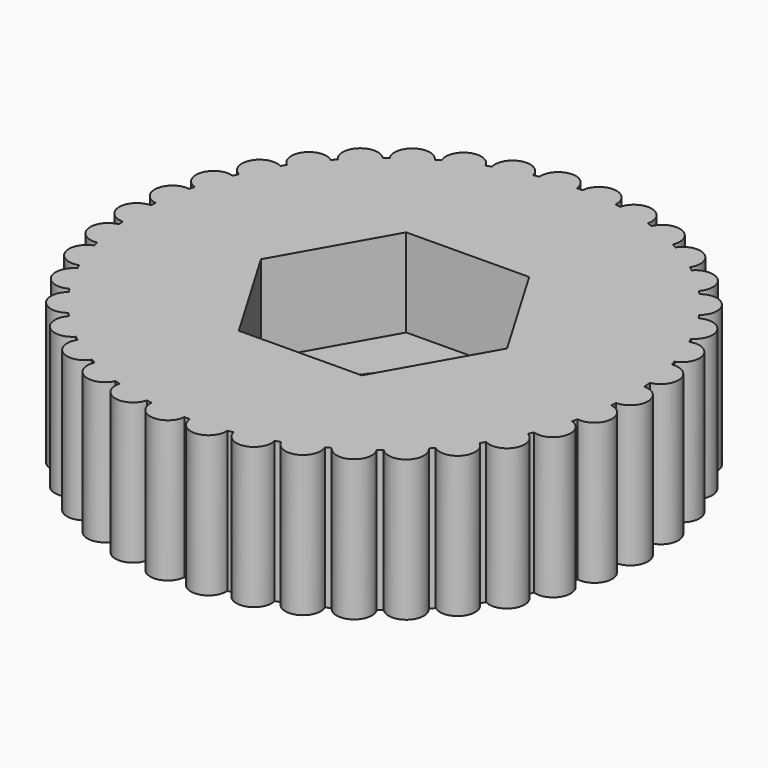
from build123d import *

# Parameters (mm, degrees)
F0_R     = 1.5
F1_DEPTH = 4
F2_DEPTH = 2.5


with BuildPart() as f1:
    # F0 (on Top) → F1 (new body)
    with BuildSketch(Plane.XY):
        with BuildLine():
            ThreePointArc((6.98212, -0.5), (6.995529, -0.25016), (7, 0))
            ThreePointArc((7, 0), (6.995529, 0.25016), (6.98212, 0.5))
            ThreePointArc((6.98212, 0.5), (6.973363, 0.61009), (6.96287, 0.720029))
            ThreePointArc((6.96287, 0.720029), (6.893654, 1.215537), (6.789222, 1.704836))
            ThreePointArc((6.789222, 1.704836), (6.769952, 1.779819), (6.749853, 1.854583))
            ThreePointArc((6.749853, 1.854583), (6.600142, 2.331979), (6.416714, 2.797461))
            ThreePointArc((6.416714, 2.797461), (6.385382, 2.868256), (6.35327, 2.938701))
            ThreePointArc((6.35327, 2.938701), (6.127134, 3.385), (5.869698, 3.814006))
            ThreePointArc((5.869698, 3.814006), (5.827157, 3.87869), (5.783904, 3.942899))
            ThreePointArc((5.783904, 3.942899), (5.487495, 4.345964), (5.163052, 4.726827))
            ThreePointArc((5.163052, 4.726827), (5.110459, 4.78364), (5.057241, 4.839867))
            ThreePointArc((5.057241, 4.839867), (4.698619, 5.188736), (4.315993, 5.511098))
            ThreePointArc((4.315993, 5.511098), (4.254778, 5.558495), (4.193043, 5.605211))
            ThreePointArc((4.193043, 5.605211), (3.78196, 5.890397), (3.351557, 6.145491))
            ThreePointArc((3.351557, 6.145491), (3.283385, 6.182183), (3.214811, 6.218118))
            ThreePointArc((3.214811, 6.218118), (2.762449, 6.431864), (2.295974, 6.612753))
            ThreePointArc((2.295974, 6.612753), (2.222698, 6.637742), (2.149151, 6.661918))
            ThreePointArc((2.149151, 6.661918), (1.66781, 6.798412), (1.177949, 6.900176))
            ThreePointArc((1.177949, 6.900176), (1.101563, 6.912782), (1.025043, 6.924542))
            ThreePointArc((1.025043, 6.924542), (0.527814, 6.980072), (0.02789, 6.999944))
            ThreePointArc((0.02789, 6.999944), (-0.049529, 6.999825), (-0.126942, 6.998849))
            ThreePointArc((-0.126942, 6.998849), (-0.626536, 6.971905), (-1.122928, 6.909344))
            ThreePointArc((-1.122928, 6.909344), (-1.199275, 6.896502), (-1.275475, 6.882817))
            ThreePointArc((-1.275475, 6.882817), (-1.763846, 6.774131), (-2.243208, 6.630839))
            ThreePointArc((-2.243208, 6.630839), (-2.316405, 6.605624), (-2.38932, 6.579601))
            ThreePointArc((-2.38932, 6.579601), (-2.853188, 6.392129), (-3.302481, 6.172003))
            ThreePointArc((-3.302481, 6.172003), (-3.370539, 6.135101), (-3.438186, 6.097449))
            ThreePointArc((-3.438186, 6.097449), (-3.864936, 5.836289), (-4.271941, 5.545315))
            ThreePointArc((-4.271941, 5.545315), (-4.333009, 5.49773), (-4.393547, 5.449472))
            ThreePointArc((-4.393547, 5.449472), (-4.771573, 5.121727), (-5.125223, 4.767818))
            ThreePointArc((-5.125223, 4.767818), (-5.17764, 4.710843), (-5.229424, 4.653292))
            ThreePointArc((-5.229424, 4.653292), (-5.548444, 4.267876), (-5.83912, 3.860657))
            ThreePointArc((-5.83912, 3.860657), (-5.881461, 3.795842), (-5.923082, 3.730563))
            ThreePointArc((-5.923082, 3.730563), (-6.174421, 3.297957), (-6.394219, 2.848503))
            ThreePointArc((-6.394219, 2.848503), (-6.425331, 2.777611), (-6.455658, 2.706379))
            ThreePointArc((-6.455658, 2.706379), (-6.632481, 2.238347), (-6.775421, 1.758881))
            ThreePointArc((-6.775421, 1.758881), (-6.79446, 1.68384), (-6.812667, 1.608592))
            ThreePointArc((-6.812667, 1.608592), (-6.910165, 1.117864), (-6.972362, 0.621426))
            ThreePointArc((-6.972362, 0.621426), (-6.978808, 0.544276), (-6.984401, 0.467059))
            ThreePointArc((-6.984401, 0.467059), (-6.999922, -0.03302), (-6.979684, -0.53293))
            ThreePointArc((-6.979684, -0.53293), (-6.973363, -0.61009), (-6.966189, -0.687176))
            ThreePointArc((-6.966189, -0.687176), (-6.899311, -1.183006), (-6.797188, -1.672792))
            ThreePointArc((-6.797188, -1.672792), (-6.778272, -1.747864), (-6.758527, -1.822723))
            ThreePointArc((-6.758527, -1.822723), (-6.611069, -2.300819), (-6.429838, -2.767161))
            ThreePointArc((-6.429838, -2.767161), (-6.398841, -2.838104), (-6.367061, -2.9087))
            ThreePointArc((-6.367061, -2.9087), (-6.143033, -3.35606), (-5.887624, -3.786276))
            ThreePointArc((-5.887624, -3.786276), (-5.845389, -3.85116), (-5.802439, -3.915572))
            ThreePointArc((-5.802439, -3.915572), (-5.507934, -4.320031), (-5.185291, -4.70242))
            ThreePointArc((-5.185291, -4.70242), (-5.132967, -4.75948), (-5.080015, -4.815958))
            ThreePointArc((-5.080015, -4.815958), (-4.723042, -5.166515), (-4.341941, -5.490678))
            ThreePointArc((-4.341941, -5.490678), (-4.280951, -5.538363), (-4.219436, -5.58537))
            ThreePointArc((-4.219436, -5.58537), (-3.809704, -5.872492), (-3.380509, -6.129613))
            ThreePointArc((-3.380509, -6.129613), (-3.31251, -6.166626), (-3.244107, -6.202884))
            ThreePointArc((-3.244107, -6.202884), (-2.792757, -6.418762), (-2.327141, -6.601849))
            ThreePointArc((-2.327141, -6.601849), (-2.253984, -6.627183), (-2.180552, -6.651706))
            ThreePointArc((-2.180552, -6.651706), (-1.69986, -6.790469), (-1.210485, -6.894543))
            ThreePointArc((-1.210485, -6.894543), (-1.134159, -6.907509), (-1.057695, -6.91963))
            ThreePointArc((-1.057695, -6.91963), (-0.560734, -6.977505), (-0.060909, -6.999735))
            ThreePointArc((-0.060909, -6.999735), (0.01651, -6.999981), (0.093926, -6.99937))
            ThreePointArc((0.093926, -6.99937), (0.593641, -6.974782), (1.090324, -6.914564))
            ThreePointArc((1.090324, -6.914564), (1.16673, -6.902082), (1.242994, -6.888757))
            ThreePointArc((1.242994, -6.888757), (1.731873, -6.782375), (2.211904, -6.641346))
            ThreePointArc((2.211904, -6.641346), (2.28522, -6.616477), (2.358257, -6.590799))
            ThreePointArc((2.358257, -6.590799), (2.823004, -6.405517), (3.27333, -6.187512))
            ThreePointArc((3.27333, -6.187512), (3.341562, -6.150932), (3.409385, -6.113599))
            ThreePointArc((3.409385, -6.113599), (3.837362, -5.854456), (4.245736, -5.565404))
            ThreePointArc((4.245736, -5.565404), (4.307028, -5.518108), (4.367793, -5.470136))
            ThreePointArc((4.367793, -5.470136), (4.74736, -5.144178), (5.102676, -4.791941))
            ThreePointArc((5.102676, -4.791941), (5.155361, -4.735214), (5.207415, -4.677908))
            ThreePointArc((5.207415, -4.677908), (5.528251, -4.294001), (5.820844, -3.888158))
            ThreePointArc((5.820844, -3.888158), (5.86349, -3.823544), (5.905419, -3.758461))
            ThreePointArc((5.905419, -3.758461), (6.158796, -3.327046), (6.380711, -2.878633))
            ThreePointArc((6.380711, -2.878633), (6.412157, -2.807889), (6.442819, -2.736801))
            ThreePointArc((6.442819, -2.736801), (6.621848, -2.269609), (6.767049, -1.790822))
            ThreePointArc((6.767049, -1.790822), (6.786441, -1.715871), (6.805003, -1.64071))
            ThreePointArc((6.805003, -1.64071), (6.904815, -1.150448), (6.969353, -0.654308))
            ThreePointArc((6.969353, -0.654308), (6.976163, -0.577189), (6.98212, -0.5))
        make_face()
        Polygon((1.705273, 3.015302), (3.463964, 0.030841), (1.758691, -2.984461), (-1.705273, -3.015302), (-3.463964, -0.030841), (-1.758691, 2.984461), align=None, mode=Mode.SUBTRACT)
        with BuildLine():
            ThreePointArc((6.98212, 0.5), (6.995529, 0.25016), (7, 0))
            ThreePointArc((7, 0), (6.995529, -0.25016), (6.98212, -0.5))
            ThreePointArc((6.98212, -0.5), (7.48212, 0), (6.98212, 0.5))
        make_face()
        with BuildLine():
            ThreePointArc((6.789222, 1.704836), (6.893654, 1.215537), (6.96287, 0.720029))
            ThreePointArc((6.96287, 0.720029), (7.36845, 1.299257), (6.789222, 1.704836))
        make_face()
        with BuildLine():
            ThreePointArc((6.805003, -1.64071), (7.380379, -1.229684), (6.969353, -0.654308))
            ThreePointArc((6.969353, -0.654308), (6.904815, -1.150448), (6.805003, -1.64071))
        make_face()
        with BuildLine():
            ThreePointArc((6.416714, 2.797461), (6.600142, 2.331979), (6.749853, 1.854583))
            ThreePointArc((6.749853, 1.854583), (7.054722, 2.492592), (6.416714, 2.797461))
        make_face()
        with BuildLine():
            ThreePointArc((6.442819, -2.736801), (7.077924, -2.425926), (6.767049, -1.790822))
            ThreePointArc((6.767049, -1.790822), (6.621848, -2.269609), (6.442819, -2.736801))
        make_face()
        with BuildLine():
            ThreePointArc((5.869698, 3.814006), (6.127134, 3.385), (6.35327, 2.938701))
            ThreePointArc((6.35327, 2.938701), (6.549136, 3.61814), (5.869698, 3.814006))
        make_face()
        with BuildLine():
            ThreePointArc((5.905419, -3.758461), (6.582979, -3.556193), (6.380711, -2.878633))
            ThreePointArc((6.380711, -2.878633), (6.158796, -3.327046), (5.905419, -3.758461))
        make_face()
        with BuildLine():
            ThreePointArc((5.163052, 4.726827), (5.487495, 4.345964), (5.783904, 3.942899))
            ThreePointArc((5.783904, 3.942899), (5.865442, 4.645289), (5.163052, 4.726827))
        make_face()
        with BuildLine():
            ThreePointArc((5.207415, -4.677908), (5.909005, -4.589747), (5.820844, -3.888158))
            ThreePointArc((5.820844, -3.888158), (5.528251, -4.294001), (5.207415, -4.677908))
        make_face()
        with BuildLine():
            ThreePointArc((4.315993, 5.511098), (4.698619, 5.188736), (5.057241, 4.839867))
            ThreePointArc((5.057241, 4.839867), (5.022233, 5.546107), (4.315993, 5.511098))
        make_face()
        with BuildLine():
            ThreePointArc((4.367793, -5.470136), (5.074331, -5.49848), (5.102676, -4.791941))
            ThreePointArc((5.102676, -4.791941), (4.74736, -5.144178), (4.367793, -5.470136))
        make_face()
        with BuildLine():
            ThreePointArc((3.351557, 6.145491), (3.78196, 5.890397), (4.193043, 5.605211))
            ThreePointArc((4.193043, 5.605211), (4.04244, 6.296094), (3.351557, 6.145491))
        make_face()
        with BuildLine():
            ThreePointArc((3.409385, -6.113599), (4.101658, -6.257677), (4.245736, -5.565404))
            ThreePointArc((4.245736, -5.565404), (3.837362, -5.854456), (3.409385, -6.113599))
        make_face()
        with BuildLine():
            ThreePointArc((2.295974, 6.612753), (2.762449, 6.431864), (3.214811, 6.218118))
            ThreePointArc((3.214811, 6.218118), (2.95271, 6.874854), (2.295974, 6.612753))
        make_face()
        with BuildLine():
            ThreePointArc((2.358257, -6.590799), (3.017437, -6.846692), (3.27333, -6.187512))
            ThreePointArc((3.27333, -6.187512), (2.823004, -6.405517), (2.358257, -6.590799))
        make_face()
        with BuildLine():
            ThreePointArc((1.177949, 6.900176), (1.66781, 6.798412), (2.149151, 6.661918))
            ThreePointArc((2.149151, 6.661918), (1.782679, 7.266648), (1.177949, 6.900176))
        make_face()
        with BuildLine():
            ThreePointArc((1.242994, -6.888757), (1.851154, -7.249507), (2.211904, -6.641346))
            ThreePointArc((2.211904, -6.641346), (1.731873, -6.782375), (1.242994, -6.888757))
        make_face()
        with BuildLine():
            ThreePointArc((0.02789, 6.999944), (0.527814, 6.980072), (1.025043, 6.924542))
            ThreePointArc((1.025043, 6.924542), (0.564167, 7.46082), (0.02789, 6.999944))
        make_face()
        with BuildLine():
            ThreePointArc((0.093926, -6.99937), (0.634528, -7.455166), (1.090324, -6.914564))
            ThreePointArc((1.090324, -6.914564), (0.593641, -6.974782), (0.093926, -6.99937))
        make_face()
        with BuildLine():
            ThreePointArc((-1.122928, 6.909344), (-0.626536, 6.971905), (-0.126942, 6.998849))
            ThreePointArc((-0.126942, 6.998849), (-0.669688, 7.45209), (-1.122928, 6.909344))
        make_face()
        with BuildLine():
            ThreePointArc((-1.057695, -6.91963), (-0.599354, -7.458076), (-0.060909, -6.999735))
            ThreePointArc((-0.060909, -6.999735), (-0.560734, -6.977505), (-1.057695, -6.91963))
        make_face()
        with BuildLine():
            ThreePointArc((-2.243208, 6.630839), (-1.763846, 6.774131), (-1.275475, 6.882817))
            ThreePointArc((-1.275475, 6.882817), (-1.88533, 7.240694), (-2.243208, 6.630839))
        make_face()
        with BuildLine():
            ThreePointArc((-2.180552, -6.651706), (-1.816937, -7.258158), (-1.210485, -6.894543))
            ThreePointArc((-1.210485, -6.894543), (-1.69986, -6.790469), (-2.180552, -6.651706))
        make_face()
        with BuildLine():
            ThreePointArc((-3.302481, 6.172003), (-2.853188, 6.392129), (-2.38932, 6.579601))
            ThreePointArc((-2.38932, 6.579601), (-3.0497, 6.832383), (-3.302481, 6.172003))
        make_face()
        with BuildLine():
            ThreePointArc((-3.244107, -6.202884), (-2.985107, -6.86085), (-2.327141, -6.601849))
            ThreePointArc((-2.327141, -6.601849), (-2.792757, -6.418762), (-3.244107, -6.202884))
        make_face()
        with BuildLine():
            ThreePointArc((-4.271941, 5.545315), (-3.864936, 5.836289), (-3.438186, 6.097449))
            ThreePointArc((-3.438186, 6.097449), (-4.13113, 6.23826), (-4.271941, 5.545315))
        make_face()
        with BuildLine():
            ThreePointArc((-4.219436, -5.58537), (-4.072094, -6.276955), (-3.380509, -6.129613))
            ThreePointArc((-3.380509, -6.129613), (-3.809704, -5.872492), (-4.219436, -5.58537))
        make_face()
        with BuildLine():
            ThreePointArc((-5.125223, 4.767818), (-4.771573, 5.121727), (-4.393547, 5.449472))
            ThreePointArc((-4.393547, 5.449472), (-5.100212, 5.474483), (-5.125223, 4.767818))
        make_face()
        with BuildLine():
            ThreePointArc((-5.080015, -4.815958), (-5.048338, -5.522355), (-4.341941, -5.490678))
            ThreePointArc((-4.341941, -5.490678), (-4.723042, -5.166515), (-5.080015, -4.815958))
        make_face()
        with BuildLine():
            ThreePointArc((-5.83912, 3.860657), (-5.548444, 4.267876), (-5.229424, 4.653292))
            ThreePointArc((-5.229424, 4.653292), (-5.930589, 4.561823), (-5.83912, 3.860657))
        make_face()
        with BuildLine():
            ThreePointArc((-5.802439, -3.915572), (-5.887289, -4.61757), (-5.185291, -4.70242))
            ThreePointArc((-5.185291, -4.70242), (-5.507934, -4.320031), (-5.802439, -3.915572))
        make_face()
        with BuildLine():
            ThreePointArc((-6.394219, 2.848503), (-6.174421, 3.297957), (-5.923082, 3.730563))
            ThreePointArc((-5.923082, 3.730563), (-6.59968, 3.525101), (-6.394219, 2.848503))
        make_face()
        with BuildLine():
            ThreePointArc((-6.367061, -2.9087), (-6.566131, -3.587206), (-5.887624, -3.786276))
            ThreePointArc((-5.887624, -3.786276), (-6.143033, -3.35606), (-6.367061, -2.9087))
        make_face()
        with BuildLine():
            ThreePointArc((-6.775421, 1.758881), (-6.632481, 2.238347), (-6.455658, 2.706379))
            ThreePointArc((-6.455658, 2.706379), (-7.089288, 2.392512), (-6.775421, 1.758881))
        make_face()
        with BuildLine():
            ThreePointArc((-6.758527, -1.822723), (-7.066402, -2.459286), (-6.429838, -2.767161))
            ThreePointArc((-6.429838, -2.767161), (-6.611069, -2.300819), (-6.758527, -1.822723))
        make_face()
        with BuildLine():
            ThreePointArc((-6.972362, 0.621426), (-6.910165, 1.117864), (-6.812667, 1.608592))
            ThreePointArc((-6.812667, 1.608592), (-7.386098, 1.194857), (-6.972362, 0.621426))
        make_face()
        with BuildLine():
            ThreePointArc((-6.966189, -0.687176), (-7.374497, -1.264484), (-6.797188, -1.672792))
            ThreePointArc((-6.797188, -1.672792), (-6.899311, -1.183006), (-6.966189, -0.687176))
        make_face()
        with BuildLine():
            ThreePointArc((-6.979684, -0.53293), (-6.999922, -0.03302), (-6.984401, 0.467059))
            ThreePointArc((-6.984401, 0.467059), (-7.482037, -0.035294), (-6.979684, -0.53293))
        make_face()
        Polygon((1.758691, -2.984461), (3.463964, 0.030841), (1.705273, 3.015302), (-1.758691, 2.984461), (-3.463964, -0.030841), (-1.705273, -3.015302), align=None)
        Circle(F0_R, mode=Mode.SUBTRACT)
    extrude(amount=F1_DEPTH)

    # F0 (on Top) → F2 (cut)
    with BuildSketch(Plane.XY):
        Polygon((1.758691, -2.984461), (3.463964, 0.030841), (1.705273, 3.015302), (-1.758691, 2.984461), (-3.463964, -0.030841), (-1.705273, -3.015302), align=None)
        Circle(F0_R, mode=Mode.SUBTRACT)
    extrude(amount=F2_DEPTH, mode=Mode.SUBTRACT)


with BuildPart() as f3_1:
    # F3: instance of F1
    add(f1.part.mirror(Plane.XY))


solid = f3_1.part
